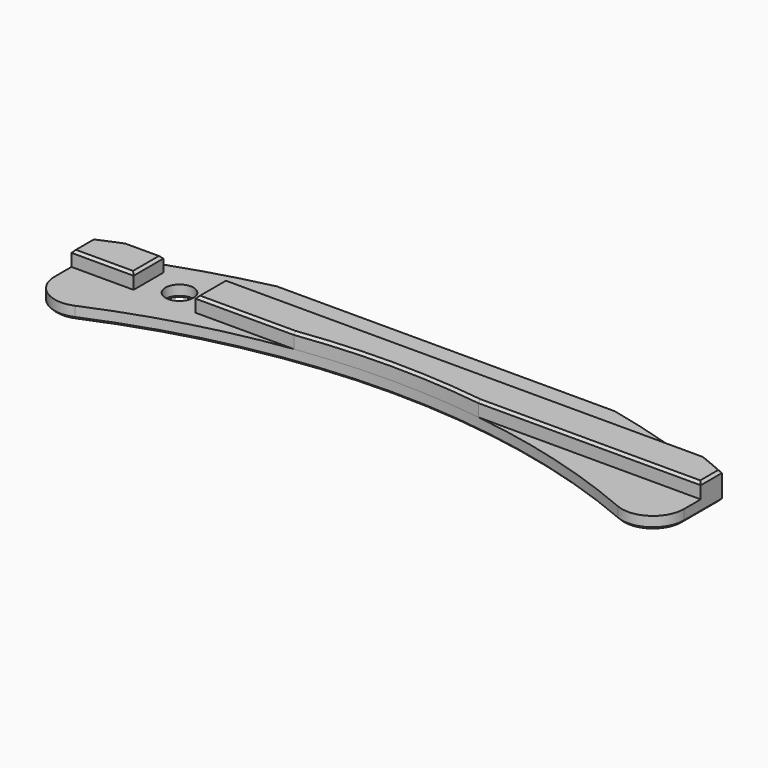
from build123d import *

# Parameters (mm, degrees)
SKETCH290_R     = 2.25
PAD_DEPTH       = 2
PAD074_DEPTH    = 2.4
CHAMFER005_SIZE = 0.4


with BuildPart() as part:
    # Sketch290 → Pad (new body)
    with BuildSketch(Plane.XY):
        with BuildLine():
            Line((-27.221315, 122), (27.221315, 122))
            ThreePointArc((50.682629, 114.264041), (39.143548, 118.713026), (27.221315, 122))
            Line((50.682629, 114.264041), (50.682629, 106.62597))
            ThreePointArc((43.71355, 102.030023), (48.435319, 102.451919), (50.682629, 106.62597))
            ThreePointArc((43.71355, 102.030023), (0, 111), (-43.71355, 102.030023))
            ThreePointArc((-50.682629, 106.62597), (-48.435319, 102.451919), (-43.71355, 102.030023))
            Line((-50.682629, 106.62597), (-50.682629, 114.264041))
            ThreePointArc((-27.221315, 122), (-39.143548, 118.713026), (-50.682629, 114.264041))
        make_face()
        with Locations((-35.682629, 113)):
            Circle(SKETCH290_R, mode=Mode.SUBTRACT)
    extrude(amount=-PAD_DEPTH)

    # Sketch291 → Pad074 (join)
    with BuildSketch(Plane.XY):
        with BuildLine():
            Line((-46.572524, 116), (-40.682629, 116))
            Line((-40.682629, 116), (-40.682629, 110))
            Line((-40.682629, 110), (-50.682629, 110))
            Line((-50.682629, 110), (-50.682629, 114.264041))
            ThreePointArc((-46.572524, 116), (-48.635322, 115.15036), (-50.682629, 114.264041))
        make_face()
        with BuildLine():
            Line((46.572524, 116), (-30.682629, 116))
            Line((-30.682629, 116), (-30.682629, 110))
            Line((-30.682629, 110), (-14.866069, 110))
            ThreePointArc((14.866069, 110), (0, 111), (-14.866069, 110))
            Line((14.866069, 110), (50.682629, 110))
            Line((50.682629, 110), (50.682629, 114.264041))
            ThreePointArc((50.682629, 114.264041), (48.635322, 115.15036), (46.572524, 116))
        make_face()
    extrude(amount=PAD074_DEPTH)

    # Chamfer005
    chamfer005_edges = [part.edges().sort_by_distance(p)[0] for p in [
        (-50.682629, 110.445006, -2),
        (-39.143548, 118.713026, -2),
        (0, 122, -2),
        (39.143548, 118.713026, -2),
        (50.682629, 110.445006, -2),
        (48.435319, 102.451919, -2),
        (0, 111, -2),
        (-48.435319, 102.451919, -2),
        (-37.932629, 113, -2),
        (32.774349, 110, 2.4),
        (50.682629, 112.132021, 2.4),
        (48.635322, 115.15036, 2.4),
        (7.944948, 116, 2.4),
        (-30.682629, 113, 2.4),
        (-22.774349, 110, 2.4),
        (0, 111, 2.4),
        (-43.627576, 116, 2.4),
        (-40.682629, 113, 2.4),
        (-45.682629, 110, 2.4),
        (-50.682629, 112.132021, 2.4),
        (-48.635322, 115.15036, 2.4),
    ]]
    chamfer(chamfer005_edges, length=CHAMFER005_SIZE)


with BuildPart() as part_1:
    # Body022061 placement: moved
    add(part.part.moved(Location((0, 0, -142))))


solid = part_1.part
